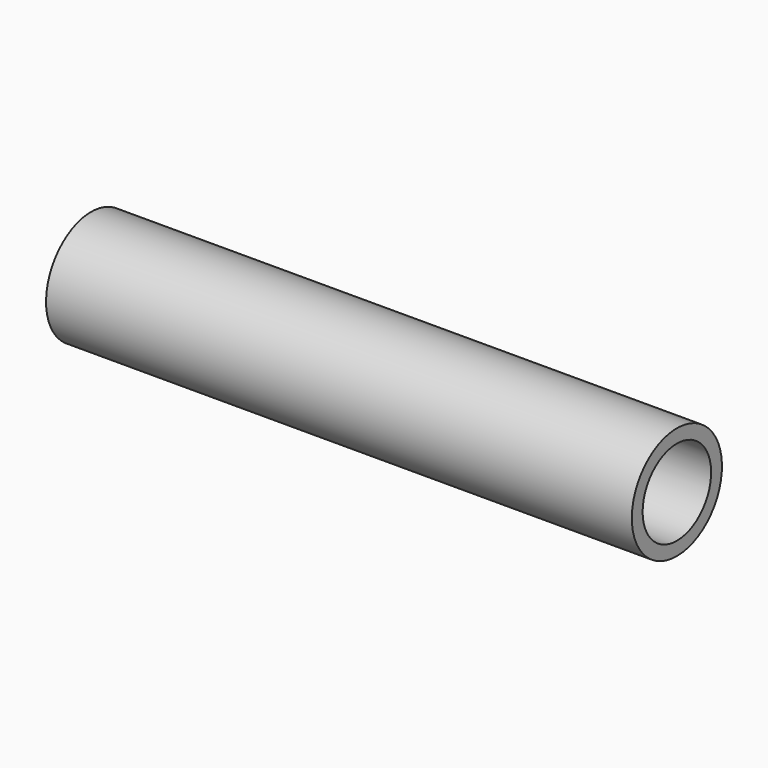
from build123d import *

# Parameters (mm, degrees)
CYLINDER004_R           = 9.5
CYLINDER004_DEPTH       = 25
CYLINDER004_PITCH_ANGLE = 90
CYLINDER003_R           = 11
CYLINDER003_DEPTH       = 105
CYLINDER003_PITCH_ANGLE = 90
CYLINDER002_R           = 12.5
CYLINDER002_DEPTH       = 130
CYLINDER002_PITCH_ANGLE = 90


with BuildPart() as cylinder002:
    # Cylinder004 → Cylinder004 (new body)
    with BuildSketch(Plane.XY):
        Circle(CYLINDER004_R)
    extrude(amount=CYLINDER004_DEPTH)


with BuildPart() as cylinder002_1:
    # Cylinder004 pitch: moved
    add(cylinder002.part.rotate(Axis((0, 0, 0), (0, 1, 0)), CYLINDER004_PITCH_ANGLE))


with BuildPart() as cylinder002_2:
    # Cylinder004 placement: moved
    add(cylinder002_1.part.moved(Location((156, 0, 0))))


with BuildPart() as cylinder001:
    # Cylinder003 → Cylinder003 (new body)
    with BuildSketch(Plane.XY):
        Circle(CYLINDER003_R)
    extrude(amount=CYLINDER003_DEPTH)


with BuildPart() as cylinder001_1:
    # Cylinder003 pitch: moved
    add(cylinder001.part.rotate(Axis((0, 0, 0), (0, 1, 0)), CYLINDER003_PITCH_ANGLE))


with BuildPart() as cylinder001_2:
    # Cylinder003 placement: moved
    add(cylinder001_1.part.moved(Location((51, 0, 0))))


with BuildPart() as batteryholder:
    # Cylinder002 → Cylinder002 (new body)
    with BuildSketch(Plane.XY):
        Circle(CYLINDER002_R)
    extrude(amount=CYLINDER002_DEPTH)


with BuildPart() as batteryholder_1:
    # Cylinder002 pitch: moved
    add(batteryholder.part.rotate(Axis((0, 0, 0), (0, 1, 0)), CYLINDER002_PITCH_ANGLE))


with BuildPart() as batteryholder_2:
    # Cylinder002 placement: moved
    add(batteryholder_1.part.moved(Location((51, 0, 0))))

    # Cut001: cut Cylinder001
    add(cylinder001_2.part, mode=Mode.SUBTRACT)

    # Cut002: cut Cylinder002
    add(cylinder002_2.part, mode=Mode.SUBTRACT)


solid = batteryholder_2.part
